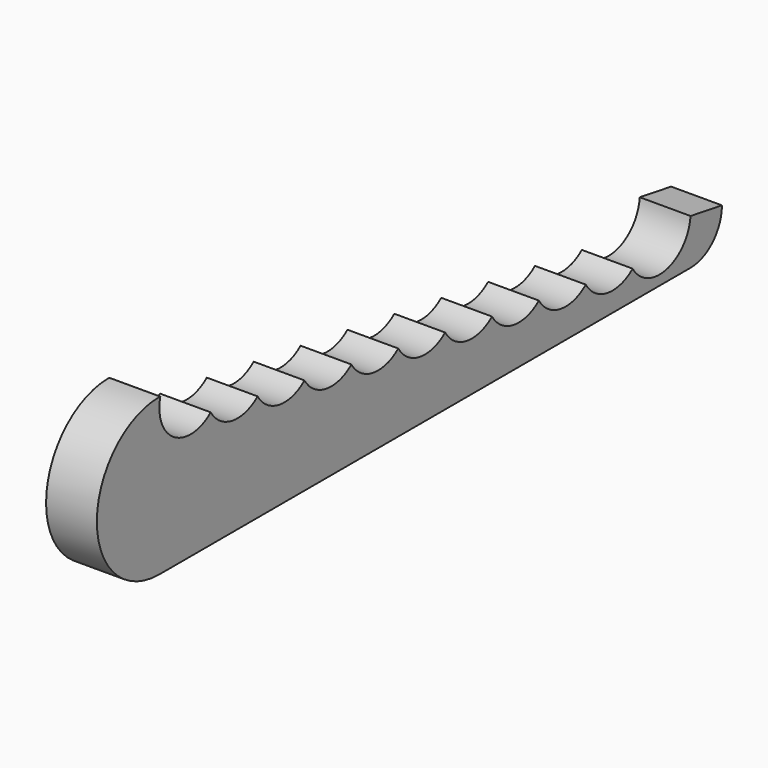
from build123d import *

# Parameters (mm, degrees)
F2_DEPTH = 1.3
F3_DEPTH = 1.301


with BuildPart() as f2:
    # F0 (on Right) → F2 (new body)
    with BuildSketch(Plane.YZ):
        with BuildLine():
            ThreePointArc((2, 4), (0, 2), (2, 0))
            Line((2, 0), (19, 0))
            ThreePointArc((19, 0), (19.7071067812, 0.2928932188), (20, 1))
            Line((20, 1), (2, 4))
        make_face()
    extrude(amount=F2_DEPTH)

    # F1 (on Right) → F3 (cut, through all)
    with BuildSketch(Plane.YZ):
        with BuildLine():
            ThreePointArc((9.6432197255, 1.9843183529), (9.906426976, 2.3276374339), (10, 2.75))
            ThreePointArc((10, 2.75), (9.9635300396, 3.017600192), (9.8567802745, 3.2656816471))
            ThreePointArc((9.8567802745, 3.2656816471), (9.5136060762, 2.6643989873), (9.6432197255, 1.9843183529))
        make_face()
        with BuildLine():
            ThreePointArc((9.8567802745, 3.2656816471), (9.9635300396, 3.017600192), (10, 2.75))
            ThreePointArc((10, 2.75), (9.906426976, 2.3276374339), (9.6432197255, 1.9843183529))
            ThreePointArc((9.6432197255, 1.9843183529), (10.3356010127, 1.5136060762), (11.1432197255, 1.7343183529))
            ThreePointArc((11.1432197255, 1.7343183529), (11.0136060762, 2.4143989873), (11.3567802745, 3.0156816471))
            ThreePointArc((11.3567802745, 3.0156816471), (10.6643989873, 3.4863939238), (9.8567802745, 3.2656816471))
        make_face()
        with BuildLine():
            ThreePointArc((9.6432197255, 1.9843183529), (9.5136060762, 2.6643989873), (9.8567802745, 3.2656816471))
            ThreePointArc((9.8567802745, 3.2656816471), (9.1643989873, 3.7363939238), (8.3567802745, 3.5156816471))
            ThreePointArc((8.3567802745, 3.5156816471), (8.4635300396, 3.267600192), (8.5, 3))
            ThreePointArc((8.5, 3), (8.406426976, 2.5776374339), (8.1432197255, 2.2343183529))
            ThreePointArc((8.1432197255, 2.2343183529), (8.8356010127, 1.7636060762), (9.6432197255, 1.9843183529))
        make_face()
        with BuildLine():
            ThreePointArc((8.5, 3), (8.4635300396, 3.267600192), (8.3567802745, 3.5156816471))
            ThreePointArc((8.3567802745, 3.5156816471), (8.0136060762, 2.9143989873), (8.1432197255, 2.2343183529))
            ThreePointArc((8.1432197255, 2.2343183529), (8.406426976, 2.5776374339), (8.5, 3))
        make_face()
        with BuildLine():
            ThreePointArc((8.1432197255, 2.2343183529), (8.0136060762, 2.9143989873), (8.3567802745, 3.5156816471))
            ThreePointArc((8.3567802745, 3.5156816471), (7.6643989873, 3.9863939238), (6.8567802745, 3.7656816471))
            ThreePointArc((6.8567802745, 3.7656816471), (6.9635300396, 3.517600192), (7, 3.25))
            ThreePointArc((7, 3.25), (6.906426976, 2.8276374339), (6.6432197255, 2.4843183529))
            ThreePointArc((6.6432197255, 2.4843183529), (7.3356010127, 2.0136060762), (8.1432197255, 2.2343183529))
        make_face()
        with BuildLine():
            ThreePointArc((12.8567802745, 2.7656816471), (12.1643989873, 3.2363939238), (11.3567802745, 3.0156816471))
            ThreePointArc((11.3567802745, 3.0156816471), (11.4635300396, 2.767600192), (11.5, 2.5))
            ThreePointArc((11.5, 2.5), (11.406426976, 2.0776374339), (11.1432197255, 1.7343183529))
            ThreePointArc((11.1432197255, 1.7343183529), (11.8356010127, 1.2636060762), (12.6432197255, 1.4843183529))
            ThreePointArc((12.6432197255, 1.4843183529), (12.5136060762, 2.1643989873), (12.8567802745, 2.7656816471))
        make_face()
        with BuildLine():
            ThreePointArc((11.5, 2.5), (11.4635300396, 2.767600192), (11.3567802745, 3.0156816471))
            ThreePointArc((11.3567802745, 3.0156816471), (11.0136060762, 2.4143989873), (11.1432197255, 1.7343183529))
            ThreePointArc((11.1432197255, 1.7343183529), (11.406426976, 2.0776374339), (11.5, 2.5))
        make_face()
        with BuildLine():
            ThreePointArc((6.6432197255, 2.4843183529), (6.5136060762, 3.1643989873), (6.8567802745, 3.7656816471))
            ThreePointArc((6.8567802745, 3.7656816471), (6.1643989873, 4.2363939238), (5.3567802745, 4.0156816471))
            ThreePointArc((5.3567802745, 4.0156816471), (5.4635300396, 3.767600192), (5.5, 3.5))
            ThreePointArc((5.5, 3.5), (5.406426976, 3.0776374339), (5.1432197255, 2.7343183529))
            ThreePointArc((5.1432197255, 2.7343183529), (5.8356010127, 2.2636060762), (6.6432197255, 2.4843183529))
        make_face()
        with BuildLine():
            ThreePointArc((7, 3.25), (6.9635300396, 3.517600192), (6.8567802745, 3.7656816471))
            ThreePointArc((6.8567802745, 3.7656816471), (6.5136060762, 3.1643989873), (6.6432197255, 2.4843183529))
            ThreePointArc((6.6432197255, 2.4843183529), (6.906426976, 2.8276374339), (7, 3.25))
        make_face()
        with BuildLine():
            ThreePointArc((14.3567802745, 2.5156816471), (13.6643989873, 2.9863939238), (12.8567802745, 2.7656816471))
            ThreePointArc((12.8567802745, 2.7656816471), (12.9635300396, 2.517600192), (13, 2.25))
            ThreePointArc((13, 2.25), (12.906426976, 1.8276374339), (12.6432197255, 1.4843183529))
            ThreePointArc((12.6432197255, 1.4843183529), (13.3356010127, 1.0136060762), (14.1432197255, 1.2343183529))
            ThreePointArc((14.1432197255, 1.2343183529), (14.0136060762, 1.9143989873), (14.3567802745, 2.5156816471))
        make_face()
        with BuildLine():
            ThreePointArc((13, 2.25), (12.9635300396, 2.517600192), (12.8567802745, 2.7656816471))
            ThreePointArc((12.8567802745, 2.7656816471), (12.5136060762, 2.1643989873), (12.6432197255, 1.4843183529))
            ThreePointArc((12.6432197255, 1.4843183529), (12.906426976, 1.8276374339), (13, 2.25))
        make_face()
        with BuildLine():
            ThreePointArc((5.1432197255, 2.7343183529), (5.0136060762, 3.4143989873), (5.3567802745, 4.0156816471))
            ThreePointArc((5.3567802745, 4.0156816471), (4.6643989873, 4.4863939238), (3.8567802745, 4.2656816471))
            ThreePointArc((3.8567802745, 4.2656816471), (3.9635300396, 4.017600192), (4, 3.75))
            ThreePointArc((4, 3.75), (3.906426976, 3.3276374339), (3.6432197255, 2.9843183529))
            ThreePointArc((3.6432197255, 2.9843183529), (4.3356010127, 2.5136060762), (5.1432197255, 2.7343183529))
        make_face()
        with BuildLine():
            ThreePointArc((5.5, 3.5), (5.4635300396, 3.767600192), (5.3567802745, 4.0156816471))
            ThreePointArc((5.3567802745, 4.0156816471), (5.0136060762, 3.4143989873), (5.1432197255, 2.7343183529))
            ThreePointArc((5.1432197255, 2.7343183529), (5.406426976, 3.0776374339), (5.5, 3.5))
        make_face()
        with BuildLine():
            ThreePointArc((15.8567802745, 2.2656816471), (15.1643989873, 2.7363939238), (14.3567802745, 2.5156816471))
            ThreePointArc((14.3567802745, 2.5156816471), (14.4635300396, 2.267600192), (14.5, 2))
            ThreePointArc((14.5, 2), (14.406426976, 1.5776374339), (14.1432197255, 1.2343183529))
            ThreePointArc((14.1432197255, 1.2343183529), (14.8356010127, 0.7636060762), (15.6432197255, 0.9843183529))
            ThreePointArc((15.6432197255, 0.9843183529), (15.5136060762, 1.6643989873), (15.8567802745, 2.2656816471))
        make_face()
        with BuildLine():
            ThreePointArc((14.5, 2), (14.4635300396, 2.267600192), (14.3567802745, 2.5156816471))
            ThreePointArc((14.3567802745, 2.5156816471), (14.0136060762, 1.9143989873), (14.1432197255, 1.2343183529))
            ThreePointArc((14.1432197255, 1.2343183529), (14.406426976, 1.5776374339), (14.5, 2))
        make_face()
        with BuildLine():
            ThreePointArc((4, 3.75), (3.9635300396, 4.017600192), (3.8567802745, 4.2656816471))
            ThreePointArc((3.8567802745, 4.2656816471), (3.5136060762, 3.6643989873), (3.6432197255, 2.9843183529))
            ThreePointArc((3.6432197255, 2.9843183529), (3.906426976, 3.3276374339), (4, 3.75))
        make_face()
        with BuildLine():
            ThreePointArc((3.6432197255, 2.9843183529), (3.5136060762, 3.6643989873), (3.8567802745, 4.2656816471))
            ThreePointArc((3.8567802745, 4.2656816471), (2.0136060762, 3.9143989873), (3.6432197255, 2.9843183529))
        make_face()
        with BuildLine():
            ThreePointArc((17.3567802745, 2.0156816471), (16.6643989873, 2.4863939238), (15.8567802745, 2.2656816471))
            ThreePointArc((15.8567802745, 2.2656816471), (15.9635300396, 2.017600192), (16, 1.75))
            ThreePointArc((16, 1.75), (15.906426976, 1.3276374339), (15.6432197255, 0.9843183529))
            ThreePointArc((15.6432197255, 0.9843183529), (16.3356010127, 0.5136060762), (17.1432197255, 0.7343183529))
            ThreePointArc((17.1432197255, 0.7343183529), (17.0136060762, 1.4143989873), (17.3567802745, 2.0156816471))
        make_face()
        with BuildLine():
            ThreePointArc((16, 1.75), (15.9635300396, 2.017600192), (15.8567802745, 2.2656816471))
            ThreePointArc((15.8567802745, 2.2656816471), (15.5136060762, 1.6643989873), (15.6432197255, 0.9843183529))
            ThreePointArc((15.6432197255, 0.9843183529), (15.906426976, 1.3276374339), (16, 1.75))
        make_face()
        with BuildLine():
            ThreePointArc((19, 1.25), (18.4223625661, 2.156426976), (17.3567802745, 2.0156816471))
            ThreePointArc((17.3567802745, 2.0156816471), (17.4635300396, 1.767600192), (17.5, 1.5))
            ThreePointArc((17.5, 1.5), (17.406426976, 1.0776374339), (17.1432197255, 0.7343183529))
            ThreePointArc((17.1432197255, 0.7343183529), (18.267600192, 0.2864699604), (19, 1.25))
        make_face()
        with BuildLine():
            ThreePointArc((17.5, 1.5), (17.4635300396, 1.767600192), (17.3567802745, 2.0156816471))
            ThreePointArc((17.3567802745, 2.0156816471), (17.0136060762, 1.4143989873), (17.1432197255, 0.7343183529))
            ThreePointArc((17.1432197255, 0.7343183529), (17.406426976, 1.0776374339), (17.5, 1.5))
        make_face()
    extrude(amount=F3_DEPTH, mode=Mode.SUBTRACT)


solid = f2.part
